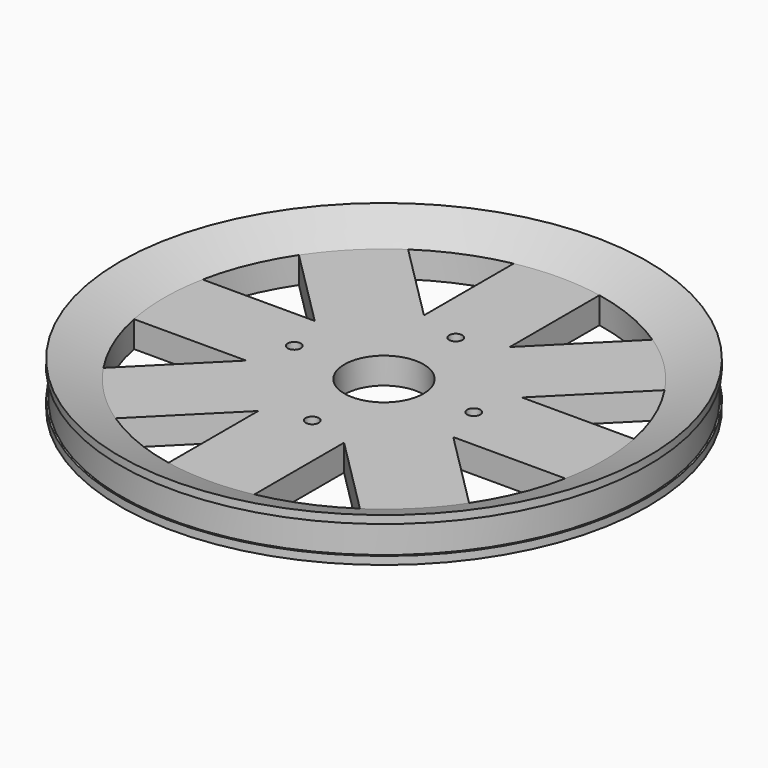
from build123d import *

# Parameters (mm, degrees)
F0_R     = 30
F1_DEPTH = 3
F2_R     = 4.5
F2_R_2   = 0.75
F3_DEPTH = 25
F6_W     = 0.2
F6_H     = 3.2


with BuildPart() as f1:
    # F0 (on Top) → F1 (new body)
    with BuildSketch(Plane.XY):
        Circle(F0_R)
    extrude(amount=F1_DEPTH)

    # F2 (on face) → F3 (cut)
    with BuildSketch(Plane.XY.offset(3)):
        Circle(F2_R)
        with Locations((-10.2, 0)):
            Circle(F2_R_2)
        with Locations((10.2, 0)):
            Circle(F2_R_2)
        with Locations((0, 10.2)):
            Circle(F2_R_2)
        with Locations((0, -10.2)):
            Circle(F2_R_2)
        with BuildLine():
            Line((-4.877146, 11.774472), (-4.877146, 24.519069))
            ThreePointArc((-4.877146, 24.519069), (-9.566866, 23.096458), (-13.888937, 20.786263))
            Line((-13.888937, 20.786263), (-4.877146, 11.774472))
        make_face()
        with BuildLine():
            ThreePointArc((13.888937, 20.786263), (9.566866, 23.096458), (4.877146, 24.519069))
            Line((4.877146, 24.519069), (4.877146, 11.774472))
            Line((4.877146, 11.774472), (13.888937, 20.786263))
        make_face()
        with BuildLine():
            ThreePointArc((-20.786263, 13.888937), (-23.096458, 9.566866), (-24.519069, 4.877146))
            Line((-24.519069, 4.877146), (-11.774472, 4.877146))
            Line((-11.774472, 4.877146), (-20.786263, 13.888937))
        make_face()
        with BuildLine():
            Line((-11.774472, -4.877146), (-24.519069, -4.877146))
            ThreePointArc((-24.519069, -4.877146), (-23.096458, -9.566866), (-20.786263, -13.888937))
            Line((-20.786263, -13.888937), (-11.774472, -4.877146))
        make_face()
        with BuildLine():
            Line((-4.877146, -11.774472), (-13.888937, -20.786263))
            ThreePointArc((-13.888937, -20.786263), (-9.566866, -23.096458), (-4.877146, -24.519069))
            Line((-4.877146, -24.519069), (-4.877146, -11.774472))
        make_face()
        with BuildLine():
            Line((4.877146, -11.774472), (4.877146, -24.519069))
            ThreePointArc((4.877146, -24.519069), (9.566866, -23.096458), (13.888937, -20.786263))
            Line((13.888937, -20.786263), (4.877146, -11.774472))
        make_face()
        with BuildLine():
            Line((11.774472, -4.877146), (20.786263, -13.888937))
            ThreePointArc((20.786263, -13.888937), (23.096458, -9.566866), (24.519069, -4.877146))
            Line((24.519069, -4.877146), (11.774472, -4.877146))
        make_face()
        with BuildLine():
            Line((11.774472, 4.877146), (24.519069, 4.877146))
            ThreePointArc((24.519069, 4.877146), (23.096458, 9.566866), (20.786263, 13.888937))
            Line((20.786263, 13.888937), (11.774472, 4.877146))
        make_face()
    extrude(amount=-F3_DEPTH, mode=Mode.SUBTRACT)

    # F4 (on Front) → F5 (revolve)
    with BuildSketch(Plane.XZ):
        Polygon((-30, 5), (-30, 3), (-25, 3), align=None)
    revolve(axis=Axis((0, 0, 3), (0, 0, 1)))

    # F6 (on Front) → F7 (revolve, cut)
    with BuildSketch(Plane.XZ):
        with Locations((-29.9, 2.5)):
            Rectangle(F6_W, F6_H)
    revolve(axis=Axis((0, 0, 5), (0, 0, 1)), mode=Mode.SUBTRACT)


solid = f1.part
